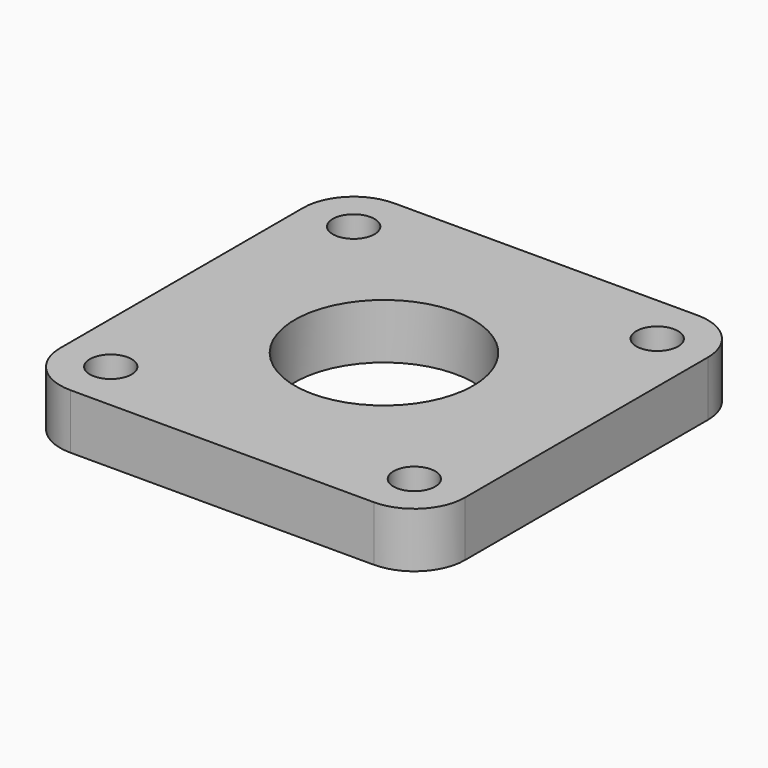
from build123d import *

# Parameters (mm, degrees)
SKETCH001_R   = 7
SKETCH001_R_2 = 30
PAD_DEPTH     = 18.5


with BuildPart() as part:
    # Sketch001 → Pad (new body)
    with BuildSketch(Plane.XY):
        with BuildLine():
            ThreePointArc((-51.0032, 68), (-63.021753, 63.021753), (-68, 51.0032))
            Line((-68, -51.0032), (-68, 51.0032))
            ThreePointArc((-68, -51.0032), (-63.021753, -63.021753), (-51.0032, -68))
            Line((51.0032, -68), (-51.0032, -68))
            ThreePointArc((51.0032, -68), (63.021753, -63.021753), (68, -51.0032))
            Line((68, 51.0032), (68, -51.0032))
            ThreePointArc((68, 51.0032), (63.021753, 63.021753), (51.0032, 68))
            Line((-51.0032, 68), (51.0032, 68))
        make_face()
        with Locations((51.0032, 51.0032)):
            Circle(SKETCH001_R, mode=Mode.SUBTRACT)
        with Locations((-51.0032, 51.0032)):
            Circle(SKETCH001_R, mode=Mode.SUBTRACT)
        with Locations((-51.0032, -51.0032)):
            Circle(SKETCH001_R, mode=Mode.SUBTRACT)
        with Locations((51.0032, -51.0032)):
            Circle(SKETCH001_R, mode=Mode.SUBTRACT)
        Circle(SKETCH001_R_2, mode=Mode.SUBTRACT)
    extrude(amount=PAD_DEPTH)


solid = part.part
